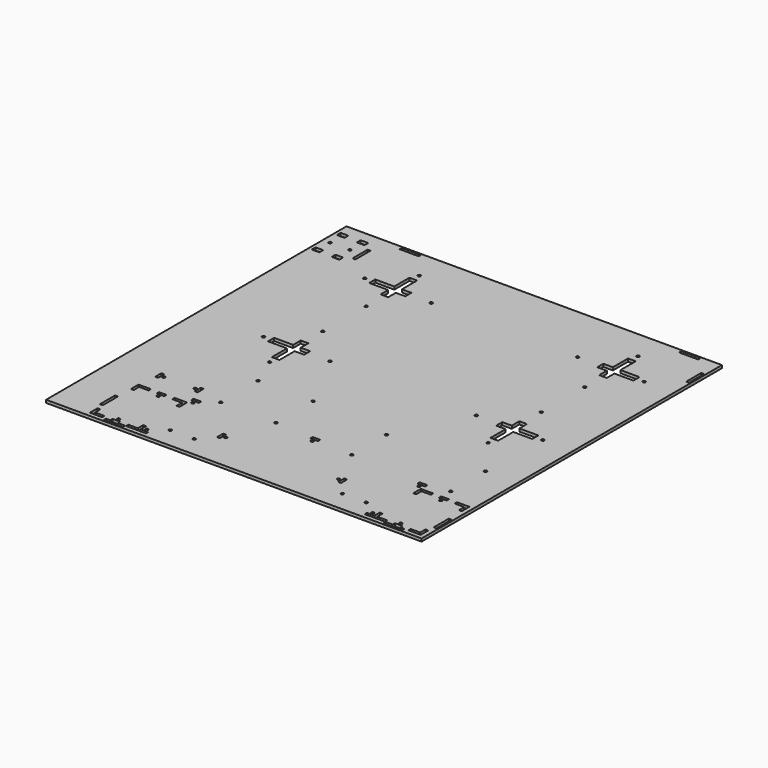
from build123d import *

# Parameters (mm, degrees)
SKETCH_W        = 395
SKETCH_H        = 395
SKETCH_W_2      = 20
SKETCH_H_2      = 3
SKETCH_W_3      = 3
SKETCH_H_3      = 20
PAD_DEPTH       = 3
POCKET_DEPTH    = 3
SKETCH002_R     = 1.5
POCKET001_DEPTH = 3
SKETCH003_R     = 1.5
SKETCH003_W     = 3
SKETCH003_H     = 8
POCKET002_DEPTH = 3
SKETCH004_R     = 1.5
SKETCH004_W     = 8
SKETCH004_H     = 3
SKETCH004_W_2   = 3
SKETCH004_H_2   = 8
POCKET003_DEPTH = 3
SKETCH005_R     = 1.5
SKETCH005_W     = 8
SKETCH005_H     = 3
POCKET004_DEPTH = 3
SKETCH006_R     = 1.5
SKETCH006_W     = 8
SKETCH006_H     = 5
POCKET005_DEPTH = 3
SKETCH009_R     = 1.5
SKETCH009_W     = 8
SKETCH009_H     = 3
POCKET008_DEPTH = 3
SKETCH010_R     = 1.5
POCKET009_DEPTH = 3


with BuildPart() as part:
    # Sketch → Pad (new body)
    with BuildSketch(Plane.XY):
        Rectangle(SKETCH_W, SKETCH_H)
        with Locations((166, 194.5)):
            Rectangle(SKETCH_W_2, SKETCH_H_2, mode=Mode.SUBTRACT)
        with Locations((194.5, 166)):
            Rectangle(SKETCH_W_3, SKETCH_H_3, mode=Mode.SUBTRACT)
        with Locations((-128, 194.5)):
            Rectangle(SKETCH_W_2, SKETCH_H_2, mode=Mode.SUBTRACT)
        with Locations((-156.5, 166)):
            Rectangle(SKETCH_W_3, SKETCH_H_3, mode=Mode.SUBTRACT)
        with Locations((194.5, -166)):
            Rectangle(SKETCH_W_3, SKETCH_H_3, mode=Mode.SUBTRACT)
        with Locations((166, -194.5)):
            Rectangle(SKETCH_W_2, SKETCH_H_2, mode=Mode.SUBTRACT)
        with Locations((-128, -194.5)):
            Rectangle(SKETCH_W_2, SKETCH_H_2, mode=Mode.SUBTRACT)
        with Locations((-156.5, -166)):
            Rectangle(SKETCH_W_3, SKETCH_H_3, mode=Mode.SUBTRACT)
    extrude(amount=PAD_DEPTH)

    # Sketch001 (on Face38 of Pad) → Pocket (cut)
    with BuildSketch(Plane.XY.offset(3)):
        Polygon((-100, 138.5), (-100, 158.5), (-92, 158.5), (-92, 138.5), (-82, 138.5), (-82, 130.5), (-92, 130.5), (-92, 120.5), (-100, 120.5), (-100, 130.5), (-120, 130.5), (-120, 138.5), align=None)
        Polygon((130, 158.5), (130, 138.5), (120, 138.5), (120, 130.5), (130, 130.5), (130, 120.5), (138, 120.5), (138, 130.5), (158, 130.5), (158, 138.5), (138, 138.5), (138, 158.5), align=None)
        Polygon((130, 15.5), (130, 5.5), (120, 5.5), (120, -2.5), (130, -2.5), (130, -22.5), (138, -22.5), (138, -2.5), (158, -2.5), (158, 5.5), (138, 5.5), (138, 15.5), align=None)
        Polygon((-100, 15.5), (-92, 15.5), (-92, 5.5), (-82, 5.5), (-82, -2.5), (-92, -2.5), (-92, -22.5), (-100, -22.5), (-100, -2.5), (-120, -2.5), (-120, 5.5), (-100, 5.5), align=None)
    extrude(amount=-POCKET_DEPTH, mode=Mode.SUBTRACT)

    # Sketch002 (on Face5 of Pocket) → Pocket001 (cut)
    with BuildSketch(Plane.XY.offset(3)):
        with Locations((-96, 39.5)):
            Circle(SKETCH002_R)
        with Locations((-58, 1.5)):
            Circle(SKETCH002_R)
        with Locations((-96, -30.5)):
            Circle(SKETCH002_R)
        with Locations((-128, 1.5)):
            Circle(SKETCH002_R)
        with Locations((96, 1.5)):
            Circle(SKETCH002_R)
        with Locations((134, 39.5)):
            Circle(SKETCH002_R)
        with Locations((134, -30.5)):
            Circle(SKETCH002_R)
        with Locations((166, 1.5)):
            Circle(SKETCH002_R)
        with Locations((134, 96.5)):
            Circle(SKETCH002_R)
        with Locations((166, 134.5)):
            Circle(SKETCH002_R)
        with Locations((134, 166.5)):
            Circle(SKETCH002_R)
        with Locations((96, 134.5)):
            Circle(SKETCH002_R)
        with Locations((-58, 134.5)):
            Circle(SKETCH002_R)
        with Locations((-96, 96.5)):
            Circle(SKETCH002_R)
        with Locations((-96, 166.5)):
            Circle(SKETCH002_R)
        with Locations((-128, 134.5)):
            Circle(SKETCH002_R)
    extrude(amount=-POCKET001_DEPTH, mode=Mode.SUBTRACT)

    # Sketch003 (on Face5 of Pocket001) → Pocket002 (cut)
    with BuildSketch(Plane.XY.offset(3)):
        with Locations((-147.2, -105.5)):
            Circle(SKETCH003_R)
        with Locations((-114.3, -105.5)):
            Circle(SKETCH003_R)
        with Locations((-82.5, -62.5)):
            Circle(SKETCH003_R)
        with Locations((-82.5, -111.5)):
            Circle(SKETCH003_R)
        with Locations((-24.5, -62.5)):
            Circle(SKETCH003_R)
        with Locations((-24.5, -111.5)):
            Circle(SKETCH003_R)
        with Locations((59.86, -71.5)):
            Circle(SKETCH003_R)
        with Locations((164, -71.5)):
            Circle(SKETCH003_R)
        with Locations((59.86, -117.22)):
            Circle(SKETCH003_R)
        with Locations((164, -117.22)):
            Circle(SKETCH003_R)
        with Locations((-151.5, -105.5)):
            Rectangle(SKETCH003_W, SKETCH003_H)
        with Locations((-110, -105.5)):
            Rectangle(SKETCH003_W, SKETCH003_H)
    extrude(amount=-POCKET002_DEPTH, mode=Mode.SUBTRACT)

    # Sketch004 (on Face5 of Pocket002) → Pocket003 (cut)
    with BuildSketch(Plane.XY.offset(3)):
        with Locations((19, -118.3)):
            Circle(SKETCH004_R)
        with Locations((78.45, -157.75)):
            Circle(SKETCH004_R)
        with Locations((-40.45, -157.75)):
            Circle(SKETCH004_R)
        with Locations((19, -114)):
            Rectangle(SKETCH004_W, SKETCH004_H)
        with Locations((82.75, -157.75)):
            Rectangle(SKETCH004_W_2, SKETCH004_H_2)
        with Locations((-44.75, -157.75)):
            Rectangle(SKETCH004_W_2, SKETCH004_H_2)
    extrude(amount=-POCKET003_DEPTH, mode=Mode.SUBTRACT)

    # Sketch005 (on Face5 of Pocket003) → Pocket004 (cut)
    with BuildSketch(Plane.XY.offset(3)):
        with Locations((-129.5, -134.8)):
            Circle(SKETCH005_R)
        with Locations((-129.5, -187.2)):
            Circle(SKETCH005_R)
        with Locations((167.5, -134.8)):
            Circle(SKETCH005_R)
        with Locations((167.5, -187.2)):
            Circle(SKETCH005_R)
        Polygon((-155, -129), (-155, -139), (-152, -139), (-152, -132), (-142, -132), (-142, -129), align=None)
        Polygon((-117, -129), (-104, -129), (-104, -139), (-107, -139), (-107, -132), (-117, -132), align=None)
        with Locations((-129.5, -130.5)):
            Rectangle(SKETCH005_W, SKETCH005_H)
        with Locations((-129.5, -191.5)):
            Rectangle(SKETCH005_W, SKETCH005_H)
        with Locations((167.5, -130.5)):
            Rectangle(SKETCH005_W, SKETCH005_H)
        with Locations((167.5, -191.5)):
            Rectangle(SKETCH005_W, SKETCH005_H)
        Polygon((-155, -183), (-155, -193), (-142, -193), (-142, -190), (-152, -190), (-152, -183), align=None)
        Polygon((-107, -183), (-104, -183), (-104, -193), (-117, -193), (-117, -190), (-107, -190), align=None)
        Polygon((155, -129), (155, -132), (145, -132), (145, -139), (142, -139), (142, -129), align=None)
        Polygon((180, -129), (180, -132), (190, -132), (190, -139), (193, -139), (193, -129), align=None)
        Polygon((180, -190), (180, -193), (193, -193), (193, -183), (190, -183), (190, -190), align=None)
        Polygon((142, -183), (145, -183), (145, -190), (155, -190), (155, -193), (142, -193), align=None)
    extrude(amount=-POCKET004_DEPTH, mode=Mode.SUBTRACT)

    # Sketch006 (on Face5 of Pocket004) → Pocket005 (cut)
    with BuildSketch(Plane.XY.offset(3)):
        with Locations((-190, 166.5)):
            Circle(SKETCH006_R)
        with Locations((-169, 166.5)):
            Circle(SKETCH006_R)
        with Locations((-190, 183)):
            Rectangle(SKETCH006_W, SKETCH006_H)
        with Locations((-169, 183)):
            Rectangle(SKETCH006_W, SKETCH006_H)
        with Locations((-190, 150)):
            Rectangle(SKETCH006_W, SKETCH006_H)
        with Locations((-169, 150)):
            Rectangle(SKETCH006_W, SKETCH006_H)
    extrude(amount=-POCKET005_DEPTH, mode=Mode.SUBTRACT)

    # Sketch009 (on Face5 of Pocket005) → Pocket008 (cut)
    with BuildSketch(Plane.XY.offset(3)):
        with Locations((-100, -126.3)):
            Circle(SKETCH009_R)
        with Locations((-100, -187.2)):
            Circle(SKETCH009_R)
        with Locations((138, -126.3)):
            Circle(SKETCH009_R)
        with Locations((138, -187.2)):
            Circle(SKETCH009_R)
        with Locations((-100, -122)):
            Rectangle(SKETCH009_W, SKETCH009_H)
        with Locations((-100, -191.5)):
            Rectangle(SKETCH009_W, SKETCH009_H)
        with Locations((138, -122)):
            Rectangle(SKETCH009_W, SKETCH009_H)
        with Locations((138, -191.5)):
            Rectangle(SKETCH009_W, SKETCH009_H)
    extrude(amount=-POCKET008_DEPTH, mode=Mode.SUBTRACT)

    # Sketch010 (on Face5 of Pocket008) → Pocket009 (cut)
    with BuildSketch(Plane.XY.offset(3)):
        with Locations((-84, -176)):
            Circle(SKETCH010_R)
        with Locations((-59, -176)):
            Circle(SKETCH010_R)
        with Locations((97, -176)):
            Circle(SKETCH010_R)
        with Locations((122, -176)):
            Circle(SKETCH010_R)
    extrude(amount=-POCKET009_DEPTH, mode=Mode.SUBTRACT)


solid = part.part
